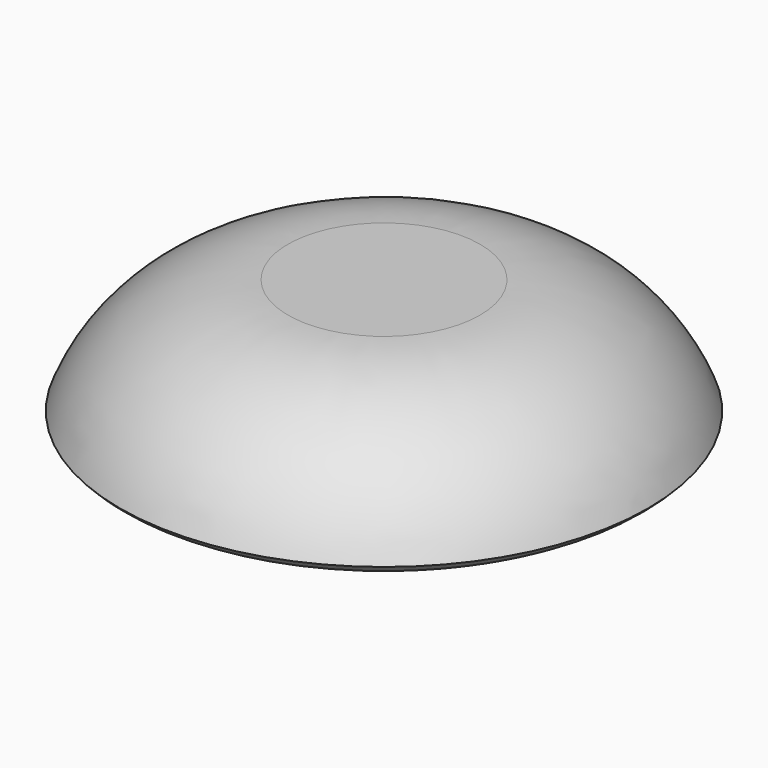
from build123d import *


with BuildPart() as f1:
    # F0 (on Front) → F1 (revolve)
    with BuildSketch(Plane.XZ):
        with BuildLine():
            Line((16, -12.814012), (0, -12.814012))
            Line((0, -12.814012), (0, -15))
            ThreePointArc((0, -15), (8.230436, -15.59365), (16, -12.814012))
        make_face()
        Polygon((19, -10.969084), (0, -10.969084), (0, -12.814012), (16, -12.814012), align=None)
        with BuildLine():
            Line((8, 0), (0, 0))
            Line((0, 0), (0, -10.969084))
            Line((0, -10.969084), (19, -10.969084))
            ThreePointArc((19, -10.969084), (20.645751, -10.614835), (22, -9.614835))
            ThreePointArc((22, -9.614835), (16.491835, -2.635182), (8, 0))
        make_face()
    revolve(axis=Axis((0, 0, -7.5), (0, 0, -1)))


solid = f1.part
